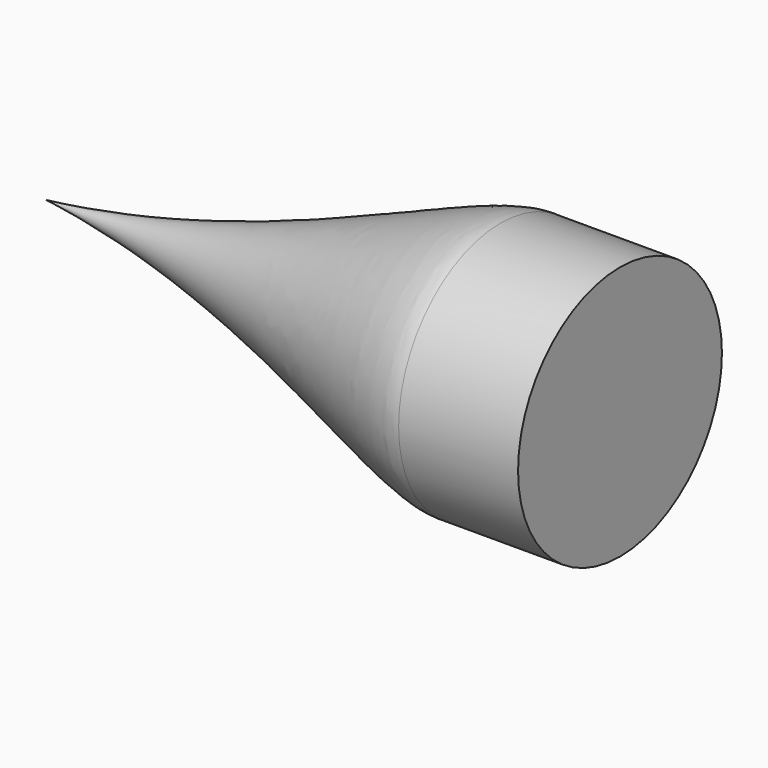
from build123d import *

# Parameters (mm, degrees)
F2_R     = 16
F3_DEPTH = 15


with BuildPart() as f1:
    # F0 (on Front) → F1 (revolve)
    with BuildSketch(Plane.XZ):
        with BuildLine():
            Line((-57.074623, 0), (0, 0))
            Line((0, 0), (0, 16))
            add(Edge.make_bspline(
                [(-57.074623, 0), (-29.236672, 2.899787), (-6.857142, 16.545842), (0, 16)],
                knots=[0, 0, 0, 0, 59.27489, 59.27489, 59.27489, 59.27489], degree=3))
        make_face()
    revolve(axis=Axis((-28.537311, 0, 0), (-1, 0, 0)))

    # F2 (on Right) → F3 (join)
    with BuildSketch(Plane.YZ):
        Circle(F2_R)
    extrude(amount=F3_DEPTH)


solid = f1.part
